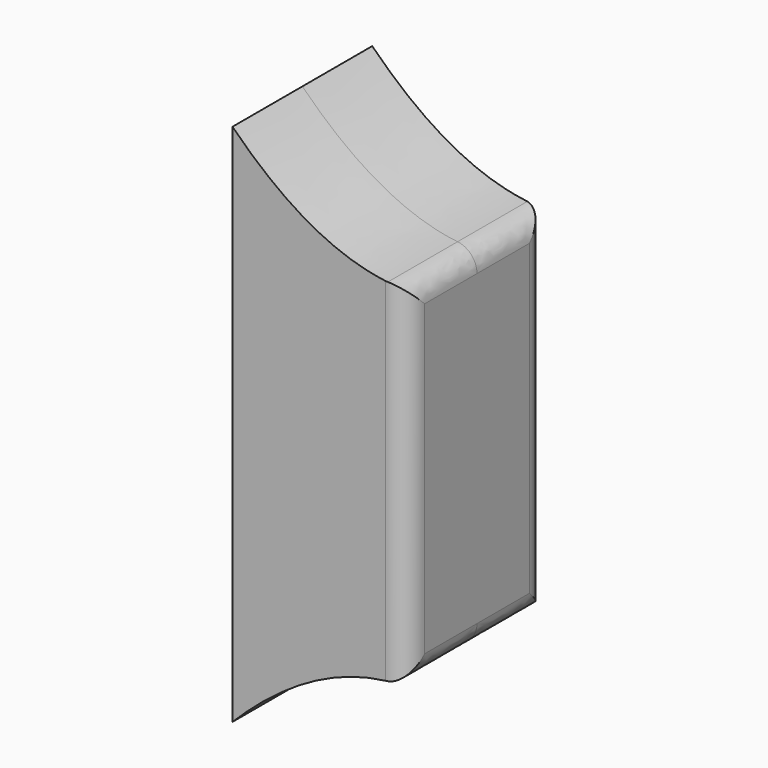
from build123d import *

# Parameters (mm, degrees)
EXTRUDE048_DEPTH = 0.8
EXTRUDE047_DEPTH = 2
FILLET_R         = 0.5


with BuildPart() as extrude_switch_hole:
    # Sketch047 → Extrude048 (new body, symmetric)
    with BuildSketch(Plane.XZ):
        Polygon((0, 0.8), (3, 0.8), (3, -0.8), (0, -0.8), (0, 0), align=None)
    extrude(amount=EXTRUDE048_DEPTH, both=True)


with BuildPart() as cut_toggle_switch_cover:
    # Sketch046 → Extrude047 (new body, symmetric)
    with BuildSketch(Plane.XZ):
        with BuildLine():
            add(Edge.make_bspline(
                [(0, 6), (2, 4), (4, 4)],
                knots=[0, 0, 0, 1, 1, 1], degree=2))
            Line((0, 6), (0, 0))
            Line((0, 0), (0, -6))
            add(Edge.make_bspline(
                [(4, -4), (2, -4), (0, -6)],
                knots=[0, 0, 0, 1, 1, 1], degree=2))
            Line((4, -4), (4, 0))
            Line((4, 0), (4, 4))
        make_face()
    extrude(amount=EXTRUDE047_DEPTH, both=True)

    # Fillet
    fillet_edges = [cut_toggle_switch_cover.edges().sort_by_distance(p)[0] for p in [
        (4, 0, 4),
        (4, 0, -4),
        (4, 2, -2),
        (4, -2, -2),
        (4, 2, 2),
        (4, -2, 2),
    ]]
    fillet(fillet_edges, radius=FILLET_R)

    # Cut012: cut Extrude_Switch_hole
    add(extrude_switch_hole.part, mode=Mode.SUBTRACT)


solid = cut_toggle_switch_cover.part
